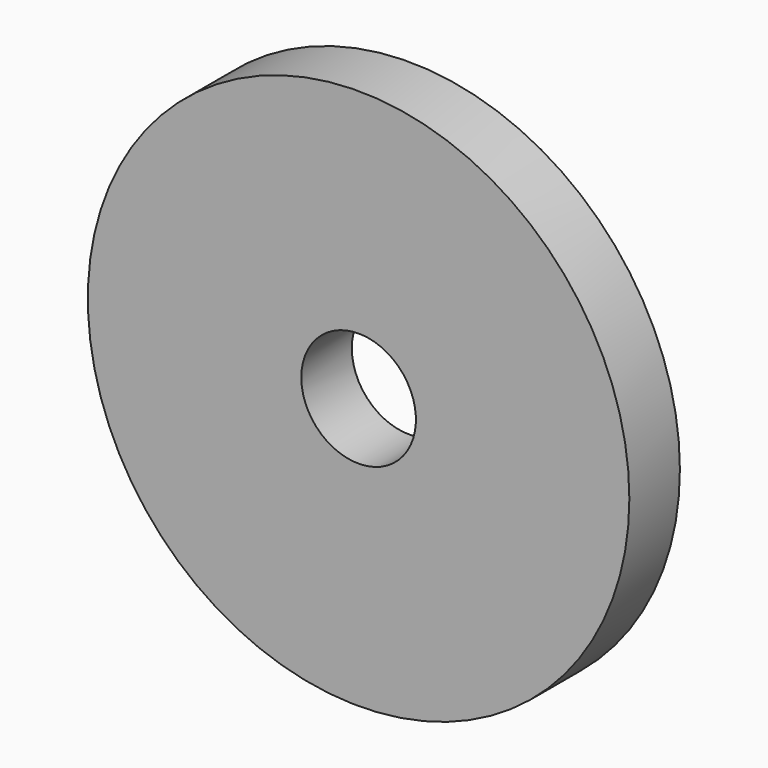
from build123d import *

# Parameters (mm, degrees)
F0_R     = 30
F1_DEPTH = 7
F2_R     = 6.35
F3_DEPTH = 7.001


with BuildPart() as f1:
    # F0 (on Front) → F1 (new body)
    with BuildSketch(Plane.XZ):
        Circle(F0_R)
    extrude(amount=F1_DEPTH)

    # F2 (on face) → F3 (cut, through all)
    with BuildSketch(Plane(origin=(0, 0, 0), x_dir=(-1, 0, 0), z_dir=(0, 1, 0))):
        Circle(F2_R)
    extrude(amount=-F3_DEPTH, mode=Mode.SUBTRACT)


solid = f1.part
